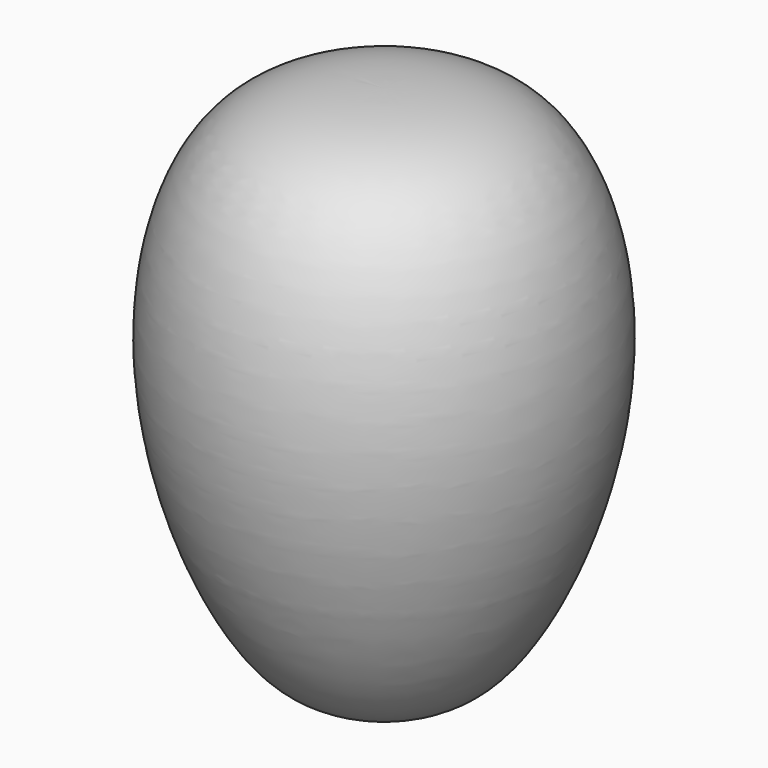
from build123d import *


with BuildPart() as f1:
    # F0 (on Front) → F1 (revolve)
    with BuildSketch(Plane.XZ):
        with BuildLine():
            Line((0, -55.6685753339), (0, 50.1882327968))
            add(Edge.make_bspline(
                [(0, 50.1882327968), (-9.8908773411, 50.1882327968), (-32.0024946873, 47.7652288878), (-43.7700515491, 2.440873945), (-26.8505030631, -45.8292632622), (-12.5633384606, -55.6685753339), (0, -55.6685753339)],
                knots=[0, 0, 0, 0, 0.2209797803, 0.4894141192, 0.7817897852, 1, 1, 1, 1], degree=3))
        make_face()
    revolve(axis=Axis((0, 0, -2.7401712685), (0, 0, -1)))


solid = f1.part
